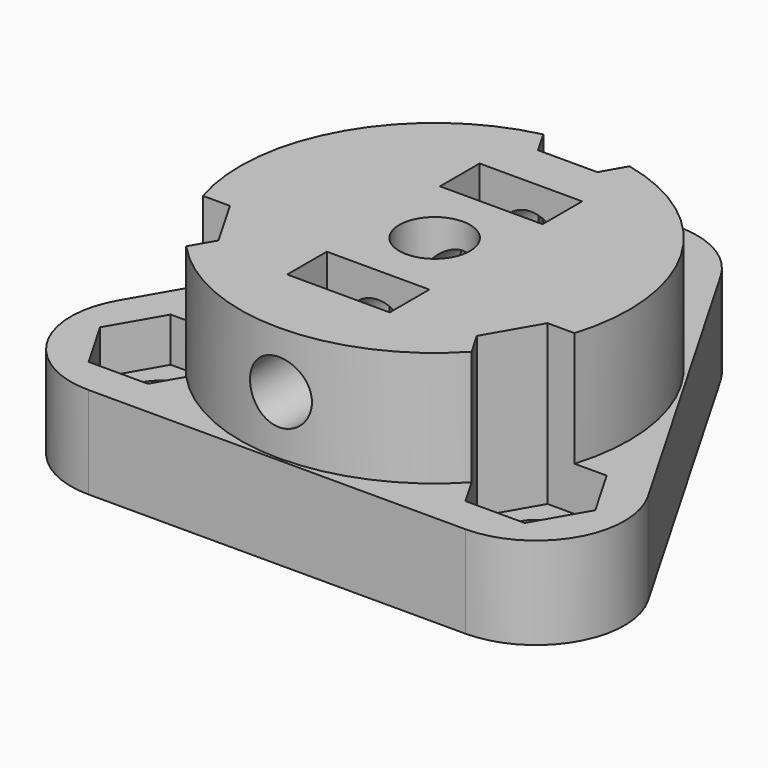
from build123d import *

# Parameters (mm, degrees)
SKETCH_R        = 1.8
PAD_DEPTH       = 5.2
SKETCH002_R     = 11
SKETCH002_R_2   = 2
PAD001_DEPTH    = 6.5
SKETCH003_R     = 7.3
POCKET001_DEPTH = 5.2
POCKET_DEPTH    = 9
SKETCH005_R     = 1.75
POCKET002_DEPTH = 28.451
SKETCH006_W     = 5.8
SKETCH006_H     = 2.8
POCKET003_DEPTH = 8
SKETCH007_R     = 3.75
SKETCH007_R_2   = 2
PAD002_DEPTH    = 5.2
CHAMFER_SIZE    = 0.6


with BuildPart() as part:
    # Sketch → Pad (new body)
    with BuildSketch(Plane.XY):
        with BuildLine():
            Line((-14.982239, -3.65), (-4.330127, 14.8))
            ThreePointArc((4.330127, 14.8), (0, 17.3), (-4.330127, 14.8))
            Line((4.330127, 14.8), (14.982239, -3.65))
            ThreePointArc((10.652112, -11.15), (14.982239, -8.65), (14.982239, -3.65))
            Line((10.652112, -11.15), (-10.652112, -11.15))
            ThreePointArc((-14.982239, -3.65), (-14.982239, -8.65), (-10.652112, -11.15))
        make_face()
        with Locations((0, 12.3)):
            Circle(SKETCH_R, mode=Mode.SUBTRACT)
        with Locations((-10.652112, -6.15)):
            Circle(SKETCH_R, mode=Mode.SUBTRACT)
        with Locations((10.652112, -6.15)):
            Circle(SKETCH_R, mode=Mode.SUBTRACT)
    extrude(amount=PAD_DEPTH)

    # Sketch002 (on Face11 of Pad) → Pad001 (join)
    with BuildSketch(Plane.XY.offset(5.2)):
        Circle(SKETCH002_R)
        Circle(SKETCH002_R_2, mode=Mode.SUBTRACT)
    extrude(amount=PAD001_DEPTH)

    # Sketch003 (on Face4 of Pad001) → Pocket001 (cut)
    with BuildSketch(Plane(origin=(0, 0, 0), x_dir=(1, 0, 0), z_dir=(0, 0, -1))):
        Circle(SKETCH003_R)
    extrude(amount=-POCKET001_DEPTH, mode=Mode.SUBTRACT)

    # Sketch004 (on Face18 of Pocket001) → Pocket (cut)
    with BuildSketch(Plane.XY.offset(11.7)):
        Polygon((-7.303481, -6.15), (-8.977797, -3.25), (-12.326428, -3.25), (-14.000744, -6.15), (-12.326428, -9.05), (-8.977797, -9.05), align=None)
        Polygon((1.674316, 9.4), (3.348632, 12.3), (1.674316, 15.2), (-1.674316, 15.2), (-3.348632, 12.3), (-1.674316, 9.4), align=None)
        Polygon((12.326428, -9.05), (14.000744, -6.15), (12.326428, -3.25), (8.977797, -3.25), (7.303481, -6.15), (8.977797, -9.05), align=None)
    extrude(amount=-POCKET_DEPTH, mode=Mode.SUBTRACT)

    # Sketch005 (on Face6 of Pocket) → Pocket002 (cut, through all)
    with BuildSketch(Plane.XZ.offset(11.15)):
        with Locations((0, 8.5)):
            Circle(SKETCH005_R)
    extrude(amount=-POCKET002_DEPTH, mode=Mode.SUBTRACT)

    # Sketch006 (on Face36 of Pocket002) → Pocket003 (cut)
    with BuildSketch(Plane.XY.offset(11.7)):
        with Locations((0, 5.4)):
            Rectangle(SKETCH006_W, SKETCH006_H)
        with Locations((0, -5.4)):
            Rectangle(SKETCH006_W, SKETCH006_H)
    extrude(amount=-POCKET003_DEPTH, mode=Mode.SUBTRACT)

    # Sketch007 (on Face33 of Pocket003) → Pad002 (join)
    with BuildSketch(Plane(origin=(0, 0, 5.2), x_dir=(1, 0, 0), z_dir=(0, 0, -1))):
        Circle(SKETCH007_R)
        Circle(SKETCH007_R_2, mode=Mode.SUBTRACT)
    extrude(amount=PAD002_DEPTH)

    # Chamfer
    chamfer_edges = [part.edges().sort_by_distance(p)[0] for p in [
        (-7.3, 0, 0),
    ]]
    chamfer(chamfer_edges, length=CHAMFER_SIZE)


solid = part.part
